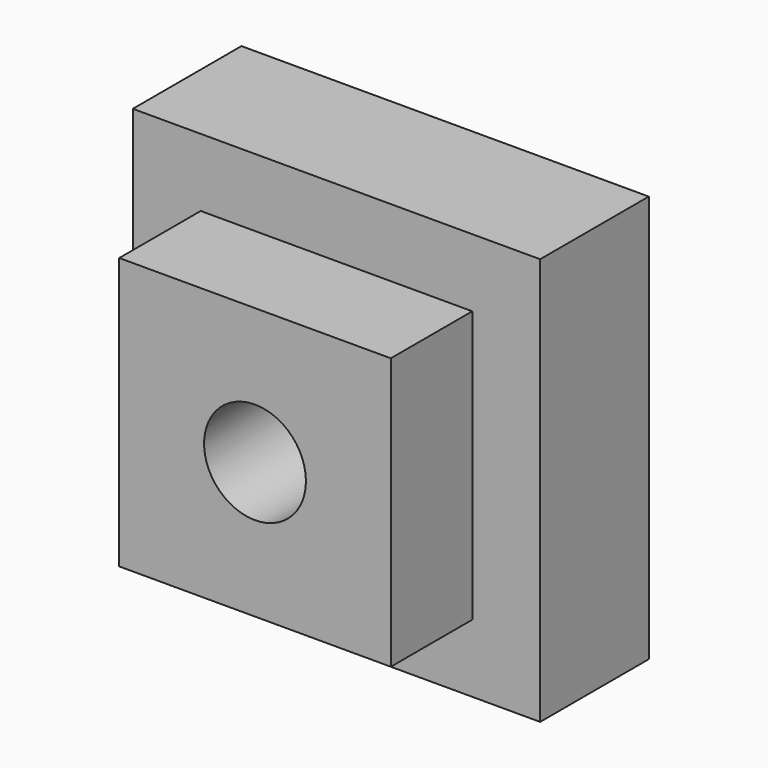
from build123d import *

# Parameters (mm, degrees)
F0_W      = 101.6
F0_H      = 101.6
F0_R      = 19.05
F1_DEPTH  = 38.1
F0_W_2    = 152.4
F0_H_2    = 152.4
F1_FACE_W = 101.6
F1_FACE_H = 101.6
F1_FACE_R = 19.05
F2_DEPTH  = 50.8


with BuildPart() as f1:
    # F0 (on Front) → F1 (new body)
    with BuildSketch(Plane.XZ):
        Rectangle(F0_W, F0_H)
        Circle(F0_R, mode=Mode.SUBTRACT)
    extrude(amount=F1_DEPTH)

    # F0 (on Front) + F1_face (on face) → F2 (join)
    with BuildSketch(Plane.XZ):
        Rectangle(F0_W_2, F0_H_2)
        Rectangle(F0_W, F0_H, mode=Mode.SUBTRACT)
        Rectangle(F0_W, F0_H)
        Circle(F0_R, mode=Mode.SUBTRACT)
    with BuildSketch(Plane.XZ.offset(38.1)):
        Rectangle(F1_FACE_W, F1_FACE_H)
        Circle(F1_FACE_R, mode=Mode.SUBTRACT)
    extrude(amount=F2_DEPTH)


solid = f1.part
